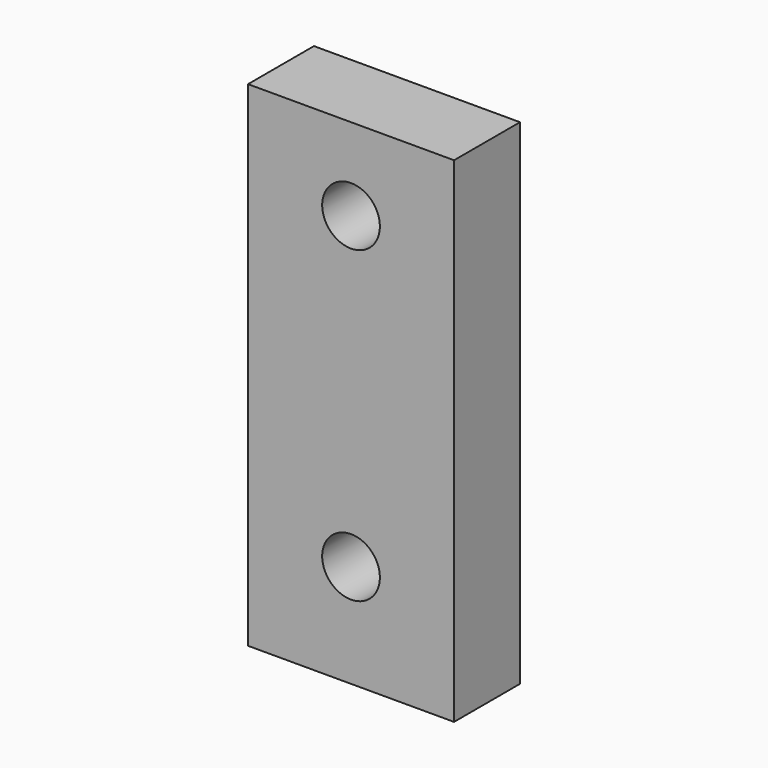
from build123d import *

# Parameters (mm, degrees)
CYLINDER231_R          = 1.4
CYLINDER231_DEPTH      = 20
CYLINDER231_ROLL_ANGLE = 90
CYLINDER230_R          = 1.4
CYLINDER230_DEPTH      = 20
CYLINDER230_ROLL_ANGLE = 90
BOX001027045174_W      = 10
BOX001027045174_H      = 4
BOX001027045174_DEPTH  = 24


with BuildPart() as m3_tap006:
    # Cylinder231 → Cylinder231 (new body)
    with BuildSketch(Plane.XY):
        Circle(CYLINDER231_R)
    extrude(amount=CYLINDER231_DEPTH)


with BuildPart() as m3_tap006_1:
    # Cylinder231 roll: moved
    add(m3_tap006.part.rotate(Axis((0, 0, 0), (1, 0, 0)), CYLINDER231_ROLL_ANGLE))


with BuildPart() as m3_tap006_2:
    # Cylinder231 placement: moved
    add(m3_tap006_1.part.moved(Location((34, 5, -29))))


with BuildPart() as fusion112123:
    # Cylinder230 → Cylinder230 (new body)
    with BuildSketch(Plane.XY):
        Circle(CYLINDER230_R)
    extrude(amount=CYLINDER230_DEPTH)


with BuildPart() as fusion112123_1:
    # Cylinder230 roll: moved
    add(fusion112123.part.rotate(Axis((0, 0, 0), (1, 0, 0)), CYLINDER230_ROLL_ANGLE))


with BuildPart() as fusion112123_2:
    # Cylinder230 placement: moved
    add(fusion112123_1.part.moved(Location((34, 5, -14))))

    # Fusion112123: union M3-tap006
    add(m3_tap006_2.part)


with BuildPart() as join_plate:
    # Box001027045174 → Box001027045174 (new body)
    with BuildSketch(Plane(origin=(29, -8.5, -34), x_dir=(1, 0, 0), z_dir=(0, 0, 1))):
        with Locations((5, 2)):
            Rectangle(BOX001027045174_W, BOX001027045174_H)
    extrude(amount=BOX001027045174_DEPTH)

    # Cut209: cut Fusion112123
    add(fusion112123_2.part, mode=Mode.SUBTRACT)


solid = join_plate.part
